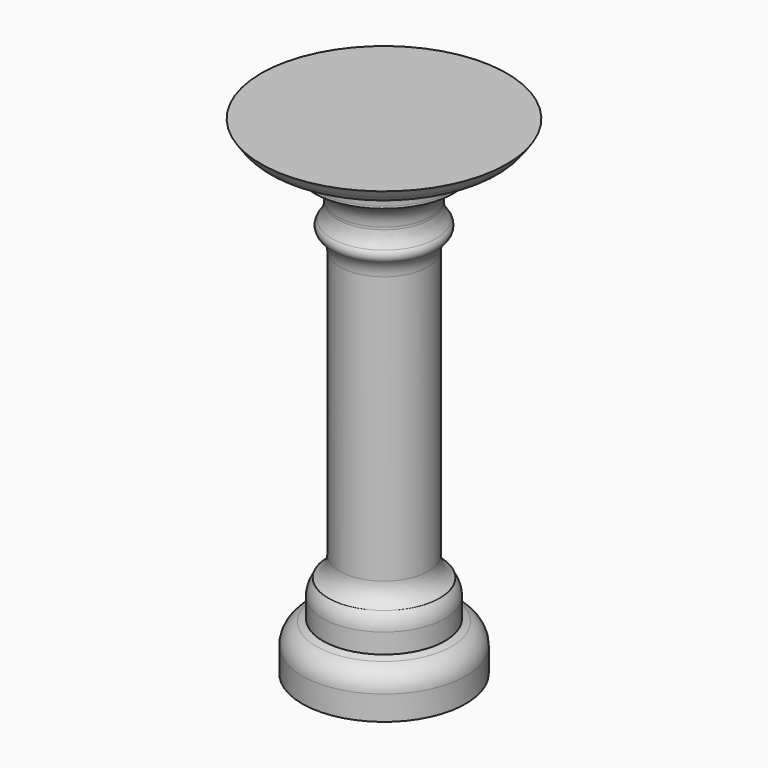
from build123d import *


with BuildPart() as f1:
    # F0 (on Front) → F1 (revolve)
    with BuildSketch(Plane.XZ):
        with BuildLine():
            ThreePointArc((-14.29819, 37.614006), (-12.781605, 35.49204), (-12.245953, 32.939423))
            Line((-12.245953, 32.939423), (-12.245953, -41.095548))
            ThreePointArc((-12.245953, -41.095548), (-13.090992, -44.260655), (-15.401198, -46.583356))
            Line((-15.401198, -46.583356), (-13.695599, -45.590433))
            ThreePointArc((-13.695599, -45.590433), (-16.005805, -47.913134), (-16.850844, -51.078241))
            Line((-16.850844, -51.078241), (-16.850844, -56.54655))
            Line((-16.850844, -56.54655), (-18.665932, -57.290765))
            ThreePointArc((-18.665932, -57.290765), (-21.530452, -59.628744), (-22.606958, -63.166082))
            Line((-22.606958, -63.166082), (-22.606958, -69.936797))
            Line((-22.606958, -69.936797), (0, -69.936801))
            Line((0, -69.936801), (0, 56.122124))
            Line((0, 56.122124), (0, 65.044105))
            Line((0, 65.044105), (-33.96108, 65.044105))
            Line((-33.96108, 65.044105), (-32.404865, 62.839467))
            ThreePointArc((-32.404865, 62.839467), (-30.138522, 60.863329), (-27.217119, 60.151406))
            Line((-27.217119, 60.151406), (-25.632985, 60.151406))
            ThreePointArc((-25.632985, 60.151406), (-21.142857, 58.291534), (-19.282985, 53.801406))
            Line((-19.282985, 53.801406), (-19.282985, 53.168962))
            Line((-19.282985, 53.168962), (-15.593656, 50.545272))
            ThreePointArc((-15.593656, 50.545272), (-13.630591, 48.281916), (-12.923787, 45.370416))
            Line((-12.923787, 45.370416), (-12.923787, 44.737449))
            ThreePointArc((-12.923787, 44.737449), (-13.322597, 42.522538), (-14.468931, 40.58584))
            ThreePointArc((-14.468931, 40.58584), (-14.985671, 39.06533), (-14.29819, 37.614006))
        make_face()
    revolve(axis=Axis((0, 0, -6.907338), (0, 0, 1)))


solid = f1.part
